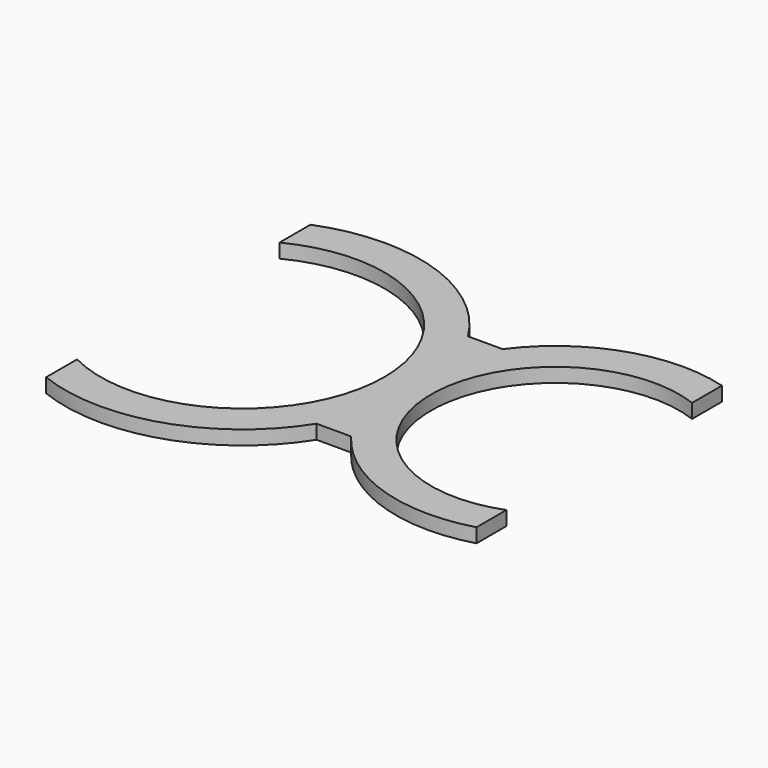
from build123d import *

# Parameters (mm, degrees)
F1_DEPTH = 4


with BuildPart() as f1:
    # F0 (on Top) → F1 (new body)
    with BuildSketch(Plane.XY):
        with BuildLine():
            Line((-35.680263, -35.682775), (-35.680263, -46.618242))
            ThreePointArc((-35.680263, -46.618242), (-1.931109, -47.467718), (24.676749, -26.689151))
            Line((24.676749, -26.689151), (34.430515, -26.689151))
            ThreePointArc((34.430515, -26.689151), (56.153475, -42.563226), (83.049299, -43.261721))
            Line((83.049299, -43.261721), (83.049299, -32.734844))
            ThreePointArc((83.049299, -32.734844), (35.639515, -0.000309), (83.049299, 32.734226))
            Line((83.049299, 32.734226), (83.049299, 43.261103))
            ThreePointArc((83.049299, 43.261103), (56.146489, 42.583104), (34.430515, 26.688533))
            Line((34.430515, 26.688533), (24.676749, 26.689151))
            ThreePointArc((24.676749, 26.689151), (-1.901498, 47.557397), (-35.680263, 46.618242))
            Line((-35.680263, 46.618242), (-35.680263, 35.682775))
            ThreePointArc((-35.680263, 35.682775), (22.43942, 0), (-35.680263, -35.682775))
        make_face()
    extrude(amount=F1_DEPTH)


solid = f1.part
